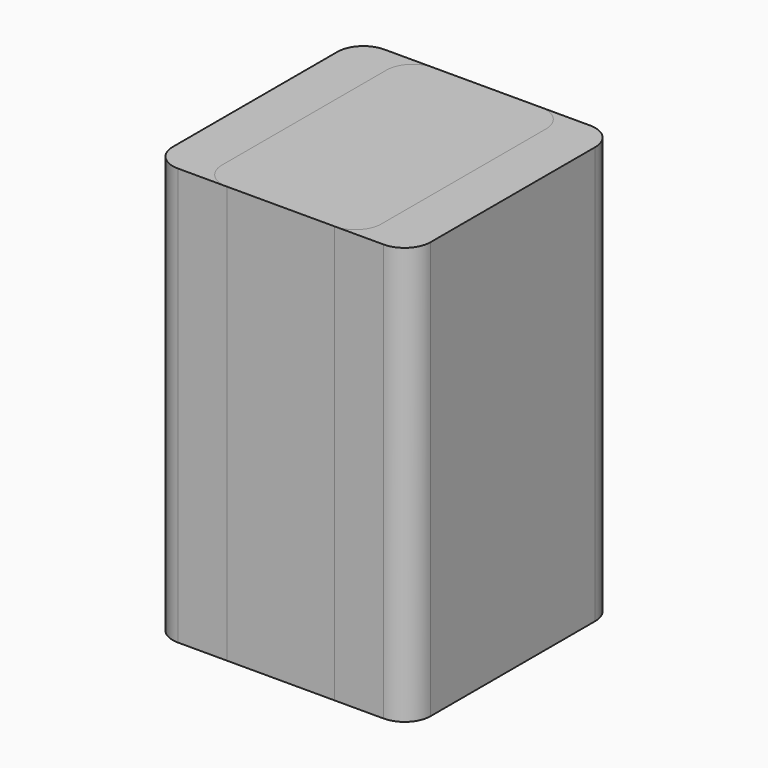
from build123d import *

# Parameters (mm, degrees)
F0_W     = 49.44
F0_H     = 49.44
F1_DEPTH = 80
F2_R     = 5
F3_W     = 30.56
F3_H     = 49.44
F4_DEPTH = 80
F5_R     = 5


with BuildPart() as f1:
    # F0 (on Top) → F1 (new body)
    with BuildSketch(Plane.XY):
        Rectangle(F0_W, F0_H)
    extrude(amount=F1_DEPTH)

    # F2
    f2_edges = [f1.edges().sort_by_distance(p)[0] for p in [
        (-24.72, 24.72, 40),
        (-24.72, -24.72, 40),
        (24.72, -24.72, 40),
        (24.72, 24.72, 40),
    ]]
    fillet(f2_edges, radius=F2_R)


with BuildPart() as f4:
    # F3 (on Top) → F4 (new body)
    with BuildSketch(Plane.XY):
        Rectangle(F3_W, F3_H)
    extrude(amount=F4_DEPTH)

    # F5
    f5_edges = [f4.edges().sort_by_distance(p)[0] for p in [
        (-15.28, -24.72, 40),
        (15.28, -24.72, 40),
        (15.28, 24.72, 40),
        (-15.28, 24.72, 40),
    ]]
    fillet(f5_edges, radius=F5_R)


solid = Compound([f1.part, f4.part])
